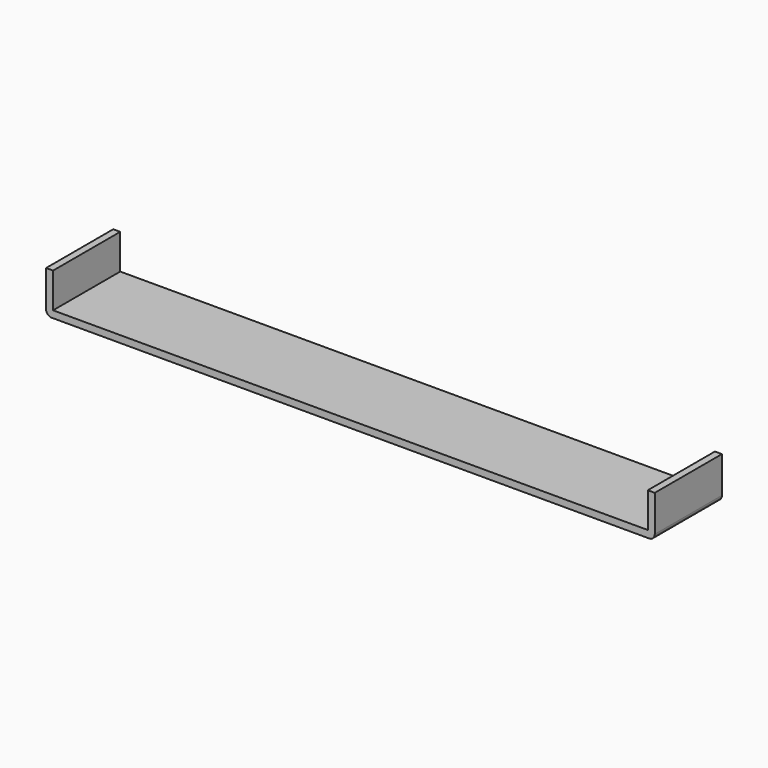
from build123d import *

# Parameters (mm, degrees)
F1_DEPTH = 76.2
F2_R     = 5.08
F3_R     = 5.08


with BuildPart() as f1:
    # F0 (on Front) → F1 (new body)
    with BuildSketch(Plane.XZ):
        Polygon((-552.45, 0), (0, 0), (0, 38.1), (-6.35, 38.1), (-6.35, 6.35), (-546.1, 6.35), (-546.1, 38.1), (-552.45, 38.1), (-552.45, 6.35), align=None)
    extrude(amount=F1_DEPTH)

    # F2
    f2_edges = [f1.edges().sort_by_distance(p)[0] for p in [
        (-552.45, -38.1, 0),
    ]]
    fillet(f2_edges, radius=F2_R)

    # F3
    f3_edges = [f1.edges().sort_by_distance(p)[0] for p in [
        (0, -38.1, 0),
    ]]
    fillet(f3_edges, radius=F3_R)


solid = f1.part
